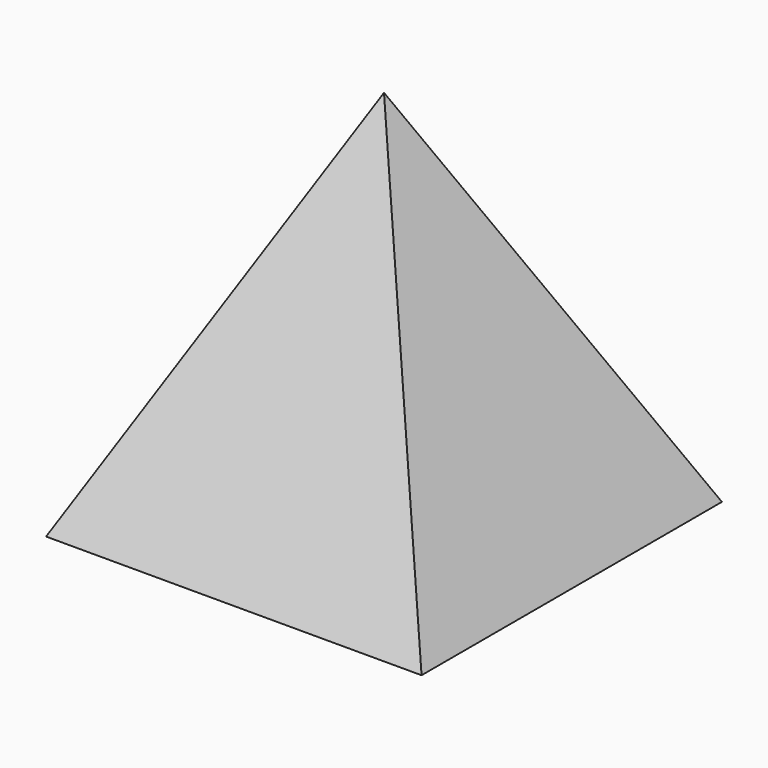
from build123d import *

# Parameters (mm, degrees)
F0_W = 50
F0_H = 50


with BuildPart() as f3:
    # F0 (on Top) → F3 section 0
    with BuildSketch(Plane.XY, mode=Mode.PRIVATE) as f3_s0:
        Rectangle(F0_W, F0_H)
    loft([Vertex(0, 0, 50), f3_s0.sketch])


solid = f3.part
